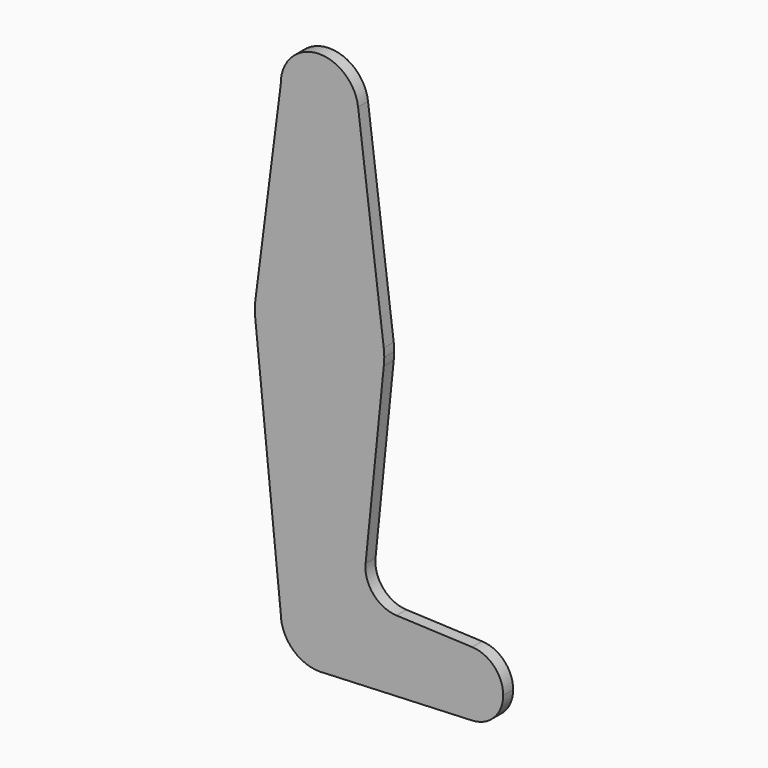
from build123d import *

# Parameters (mm, degrees)
F0_R     = 1.5875
F0_R_2   = 3.175
F1_DEPTH = 3.048


with BuildPart() as f1:
    # F0 (on Front) → F1 (new body)
    with BuildSketch(Plane.XZ):
        with BuildLine():
            ThreePointArc((45.0512324214, 0), (42.8445348199, 5.4919768863), (37.4514062495, 7.9303141575))
            ThreePointArc((37.4514062495, 7.9303141575), (29.1762324214, 0), (37.4514062495, -7.9303141575))
            ThreePointArc((37.4514062495, -7.9303141575), (42.8445348199, -5.4919768863), (45.0512324214, 0))
        make_face()
        with BuildLine():
            ThreePointArc((9.4553399063, 115.449857494), (9.507569027, 114.875982809), (9.525, 114.3))
            ThreePointArc((9.525, 114.3), (0.0975597085, 104.7754996402), (-9.5230014915, 114.1048908181))
            Line((-9.5230014915, 114.1048908181), (-15.7463614541, 65.5168604207))
            ThreePointArc((-15.7463614541, 65.5168604207), (0.016359288, 79.3749915708), (15.7504847833, 65.484402704))
            Line((15.7504847833, 65.484402704), (9.4553399063, 115.449857494))
        make_face()
        with Locations((-6.3508603799, 99.4688310552)):
            Circle(F0_R, mode=Mode.SUBTRACT)
        with BuildLine():
            ThreePointArc((15.875, 63.5), (15.8438406161, 64.4941526707), (15.7504847833, 65.484402704))
            ThreePointArc((15.7504847833, 65.484402704), (0.016359288, 79.3749915708), (-15.7463614541, 65.5168604207))
            ThreePointArc((-15.7463614541, 65.5168604207), (-15.8736111305, 63.7099873296), (-15.7942028036, 61.9003804205))
            ThreePointArc((-15.7942028036, 61.9003804205), (-0.1936293613, 47.6261809047), (15.7504847833, 61.515597296))
            ThreePointArc((15.7504847833, 61.515597296), (15.8438406161, 62.5058473293), (15.875, 63.5))
        make_face()
        with Locations((0, 63.5)):
            Circle(F0_R_2, mode=Mode.SUBTRACT)
        with BuildLine():
            ThreePointArc((-9.5230014915, 114.1048908181), (0.0975597085, 104.7754996402), (9.525, 114.3))
            ThreePointArc((9.525, 114.3), (9.507569027, 114.875982809), (9.4553399063, 115.449857494))
            ThreePointArc((9.4553399063, 115.449857494), (-0.6733337674, 123.8011708035), (-9.5230014915, 114.1048908181))
        make_face()
        with Locations((0, 114.3)):
            Circle(F0_R_2, mode=Mode.SUBTRACT)
        with BuildLine():
            ThreePointArc((15.7504847833, 61.515597296), (-0.1936293613, 47.6261809047), (-15.7942028036, 61.9003804205))
            Line((-15.7942028036, 61.9003804205), (-9.525, 0))
            ThreePointArc((-9.525, 0), (-6.7351920908, 6.7351920908), (0, 9.525))
            ThreePointArc((0, 9.525), (0.4052085937, 9.5163769889), (0.8096835142, 9.4905235686))
            ThreePointArc((0.8096835142, 9.4905235686), (7.0156204456, 6.4425689568), (9.525, 0))
            ThreePointArc((9.525, 0), (7.0156204456, -6.4425689568), (0.8096835142, -9.4905235686))
            Line((0.8096835142, -9.4905235686), (37.4514062495, -7.9303141575))
            ThreePointArc((37.4514062495, -7.9303141575), (29.1762324214, 0), (37.4514062495, 7.9303141575))
            Line((37.4514062495, 7.9303141575), (18.8646837389, 8.7217392657))
            ThreePointArc((18.8646837389, 8.7217392657), (13.1929762999, 11.4602704772), (11.2930893163, 17.4651225086))
            Line((11.2930893163, 17.4651225086), (15.7504847833, 61.515597296))
        make_face()
        with Locations((0, 63.5)):
            Circle(F0_R_2)
        with Locations((-6.3508603799, 99.4688310552)):
            Circle(F0_R)
        with BuildLine():
            ThreePointArc((0, 9.525), (-6.7351920908, 6.7351920908), (-9.525, 0))
            ThreePointArc((-9.525, 0), (-6.7351920908, -6.7351920908), (0, -9.525))
            Line((0, -9.525), (0.8096835142, -9.4905235686))
            ThreePointArc((0.8096835142, -9.4905235686), (7.0156204456, -6.4425689568), (9.525, 0))
            ThreePointArc((9.525, 0), (7.0156204456, 6.4425689568), (0.8096835142, 9.4905235686))
            Line((0.8096835142, 9.4905235686), (0, 9.525))
        make_face()
        with BuildLine():
            Line((0.8096835142, -9.4905235686), (0, -9.525))
            ThreePointArc((0, -9.525), (0.4052085937, -9.5163769889), (0.8096835142, -9.4905235686))
        make_face()
        with BuildLine():
            ThreePointArc((0.8096835142, 9.4905235686), (0.4052085937, 9.5163769889), (0, 9.525))
            Line((0, 9.525), (0.8096835142, 9.4905235686))
        make_face()
        with Locations((0, 114.3)):
            Circle(F0_R_2)
    extrude(amount=F1_DEPTH)


solid = f1.part
